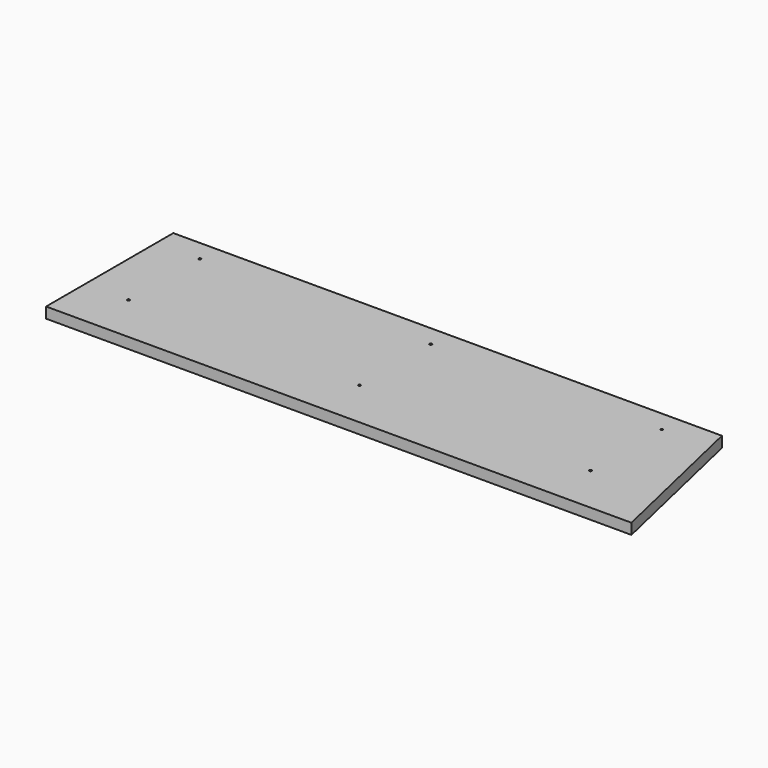
from build123d import *

# Parameters (mm, degrees)
F0_W     = 1380
F0_H     = 400
F1_DEPTH = 27
F2_R     = 3
F3_DEPTH = 27.001


with BuildPart() as f1:
    # F0 (on Top) → F1 (new body)
    with BuildSketch(Plane.XY):
        with Locations((690, 200)):
            Rectangle(F0_W, F0_H)
        Polygon((1380, 400), (1380, 0), (1472.347276, 0), align=None)
    extrude(amount=F1_DEPTH)

    # F2 (on face) → F3 (cut, through all)
    with BuildSketch(Plane(origin=(0, 0, 0), x_dir=(1, 0, 0), z_dir=(0, 0, -1))):
        with Locations((1271, -123)):
            Circle(F2_R)
        with Locations((1271, -347)):
            Circle(F2_R)
        with Locations((109, -123)):
            Circle(F2_R)
        with Locations((109, -347)):
            Circle(F2_R)
        with Locations((690, -347)):
            Circle(F2_R)
        with Locations((690, -123)):
            Circle(F2_R)
    extrude(amount=-F3_DEPTH, mode=Mode.SUBTRACT)


solid = f1.part
